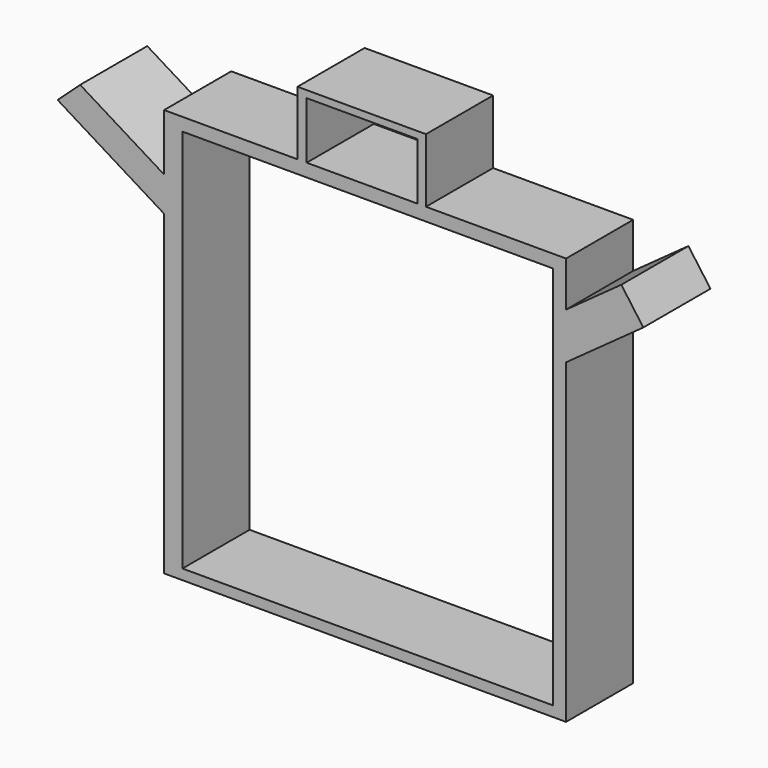
from build123d import *

# Parameters (mm, degrees)
F0_W     = 112.163555
F0_H     = 116.436448
F1_DEPTH = 25.4
F3_DEPTH = 25.4


with BuildPart() as f1:
    # F0 (on Front) → F1 (new body)
    with BuildSketch(Plane.XZ):
        Polygon((64.482391, 56.602281), (-57.197388, 56.602281), (-57.197388, 39.417479), (-57.197388, 28.948879), (-57.197388, -66.893607), (64.482391, -66.893607), (64.482391, 28.948879), (64.482391, 42.985424), align=None)
        with Locations((4.442652, -5.554767)):
            Rectangle(F0_W, F0_H, mode=Mode.SUBTRACT)
        Polygon((-57.197388, 28.948879), (-57.197388, 39.417479), (-82.617626, 55.056822), (-89.454263, 48.817851), align=None)
        Polygon((81.210309, 55.056822), (64.482391, 42.985424), (64.482391, 28.948879), (87.87097, 45.826823), align=None)
    extrude(amount=F1_DEPTH)

    # F2 (on Front) → F3 (join)
    with BuildSketch(Plane.XZ):
        Polygon((-16.81501, 75.950749), (-16.81501, 52.877102), (-14.037628, 52.877102), (-14.037628, 73.814303), (19.504616, 73.814303), (19.504616, 52.877102), (22.068355, 52.877102), (22.068355, 75.950749), align=None)
    extrude(amount=F3_DEPTH)


solid = f1.part
